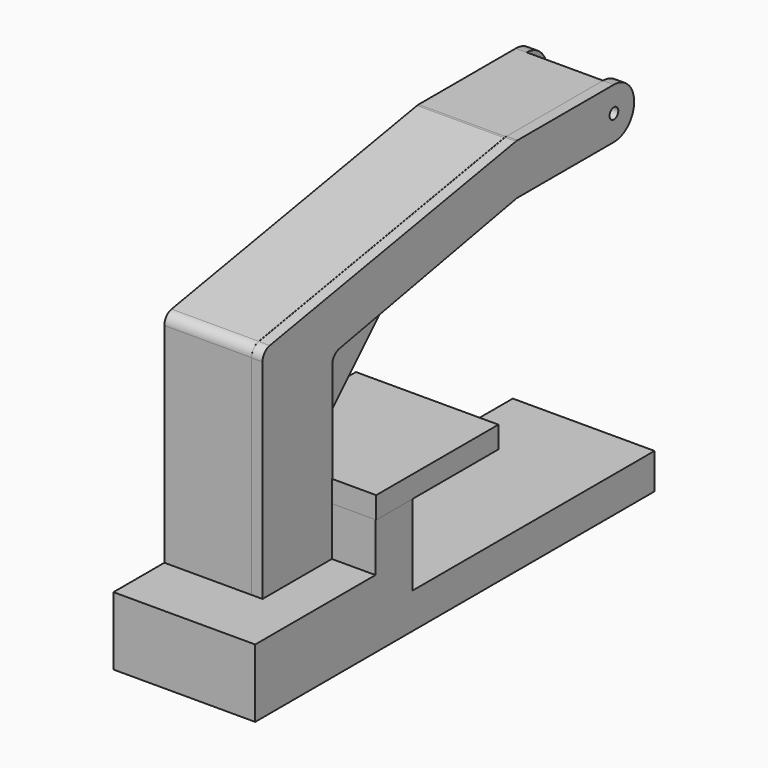
from build123d import *

# Parameters (mm, degrees)
F1_DEPTH  = 40
F3_DEPTH  = 35
F5_DEPTH  = 35
F6_R      = 2.5
F7_DEPTH  = 5.001
F8_R      = 2.5
F9_DEPTH  = 5
F11_DEPTH = 65
F12_W     = 65.337941
F12_H     = 70.039435
F13_DEPTH = 10


with BuildPart() as f1:
    # F0 (on Right) → F1 (new body)
    with BuildSketch(Plane.YZ):
        with BuildLine():
            Line((-20, -50), (20, -50))
            Line((20, -50), (20, -2.066369))
            ThreePointArc((20, -2.066369), (20.379069, -0.156659), (21.458797, 1.463487))
            Line((21.458797, 1.463487), (58.898135, 39.023183))
            ThreePointArc((58.898135, 39.023183), (60.095847, 39.910119), (61.501771, 40.404637))
            Line((61.501771, 40.404637), (124.805093, 52.489212))
            ThreePointArc((124.805093, 52.489212), (125.271783, 52.55568), (125.742659, 52.577902))
            Line((125.742659, 52.577902), (181.462377, 52.577902))
            ThreePointArc((181.462377, 52.577902), (193.066088, 64.181613), (181.462377, 75.785324))
            Line((181.462377, 75.785324), (125.709989, 75.785324))
            ThreePointArc((125.709989, 75.785324), (125.271379, 75.766049), (124.83615, 75.708372))
            Line((124.83615, 75.708372), (-15.873841, 50.732392))
            ThreePointArc((-15.873841, 50.732392), (-18.832049, 49.021104), (-20, 45.809346))
            Line((-20, 45.809346), (-20, -50))
        make_face()
    extrude(amount=F1_DEPTH)

    # F2 (on face) → F3 (cut)
    with BuildSketch(Plane.YZ.offset(40)):
        with BuildLine():
            Line((125.276458, 70.708372), (-10.870951, 46.542251))
            ThreePointArc((-10.870951, 46.542251), (-13.830267, 44.829641), (-14.99711, 41.615754))
            Line((-14.99711, 41.615754), (-14.937373, -45.000002))
            Line((-14.937373, -45.000002), (15, -45.000002))
            Line((15, -45.000002), (15, 32.533664))
            ThreePointArc((15, 32.533664), (16.14722, 35.720525), (19.062433, 37.444974))
            Line((19.062433, 37.444974), (124.061316, 57.489212))
            ThreePointArc((124.061316, 57.489212), (124.528007, 57.55568), (124.998883, 57.577902))
            Line((124.998883, 57.577902), (181.462377, 57.577902))
            ThreePointArc((181.462377, 57.577902), (188.066088, 64.181613), (181.462377, 70.785324))
            Line((181.462377, 70.785324), (126.150297, 70.785324))
            ThreePointArc((126.150297, 70.785324), (125.711687, 70.766049), (125.276458, 70.708372))
        make_face()
    extrude(amount=-F3_DEPTH, mode=Mode.SUBTRACT)

    # F4 (on face) → F5 (cut)
    with BuildSketch(Plane.YZ.offset(40)):
        with BuildLine():
            ThreePointArc((181.462377, 52.577902), (193.066088, 64.181613), (181.462377, 75.785324))
            Line((181.462377, 75.785324), (181.462377, 52.577902))
        make_face()
    extrude(amount=-F5_DEPTH, mode=Mode.SUBTRACT)

    # F6 (on face) → F7 (cut, through all)
    with BuildSketch(Plane.YZ.offset(5)):
        with Locations((181.462377, 64.181613)):
            Circle(F6_R)
    extrude(amount=-F7_DEPTH, mode=Mode.SUBTRACT)


with BuildPart() as f9:
    # F8 (on face) → F9 (new body)
    with BuildSketch(Plane.YZ.offset(40)):
        with BuildLine():
            Line((24.062433, 33.167194), (125.278071, 52.489212))
            ThreePointArc((125.278071, 52.489212), (125.744762, 52.55568), (126.215638, 52.577902))
            Line((126.215638, 52.577902), (181.462377, 52.577902))
            ThreePointArc((181.462377, 52.577902), (193.066088, 64.181613), (181.462377, 75.785324))
            Line((181.462377, 75.785324), (126.150297, 75.785324))
            ThreePointArc((126.150297, 75.785324), (125.711687, 75.766049), (125.276458, 75.708372))
            Line((125.276458, 75.708372), (-15.873839, 50.65424))
            ThreePointArc((-15.873839, 50.65424), (-18.832049, 48.942952), (-20, 45.731192))
            Line((-20, 45.731192), (-20, -50))
            Line((-20, -50), (20, -50))
            Line((20, -50), (20, 28.255883))
            ThreePointArc((20, 28.255883), (21.14722, 31.442744), (24.062433, 33.167194))
        make_face()
        with Locations((181.462377, 64.181613)):
            Circle(F8_R, mode=Mode.SUBTRACT)
    extrude(amount=F9_DEPTH)


with BuildPart() as f11:
    # F10 (on Right) → F11 (new body)
    with BuildSketch(Plane.YZ):
        Polygon((19.761348, -27.624568), (19.761348, -49.990527), (-49.188843, -49.990527), (-49.188843, -81.256658), (179.739043, -81.256658), (179.739043, -64.899407), (41.124731, -64.899407), (41.124731, -27.624568), align=None)
    extrude(amount=F11_DEPTH)


with BuildPart() as f13:
    # F12 (on face) → F13 (new body)
    with BuildSketch(Plane.XY.offset(-27.624568)):
        with Locations((32.668971, 54.781065)):
            Rectangle(F12_W, F12_H)
    extrude(amount=F13_DEPTH)


solid = Compound([f1.part, f9.part, f11.part, f13.part])
